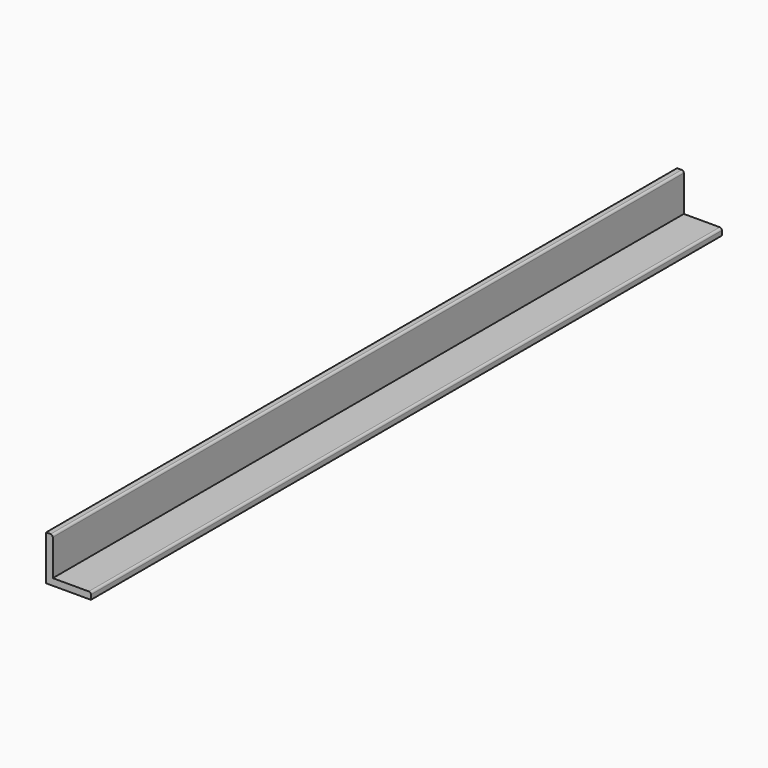
from build123d import *

# Parameters (mm, degrees)
F1_DEPTH = 279.4


with BuildPart() as f1:
    # F0 (on Front) → F1 (new body, symmetric)
    with BuildSketch(Plane.XZ):
        with BuildLine():
            Line((0, 31.75), (0, 0))
            Line((0, 0), (31.75, 0))
            Line((31.75, 0), (31.75, 3.2385))
            ThreePointArc((31.75, 3.2385), (31.303631, 4.316131), (30.226, 4.7625))
            Line((30.226, 4.7625), (4.7625, 4.7625))
            Line((4.7625, 4.7625), (4.7625, 30.226))
            ThreePointArc((4.7625, 30.226), (4.316131, 31.303631), (3.2385, 31.75))
            Line((3.2385, 31.75), (0, 31.75))
        make_face()
    extrude(amount=F1_DEPTH, both=True)


solid = f1.part
